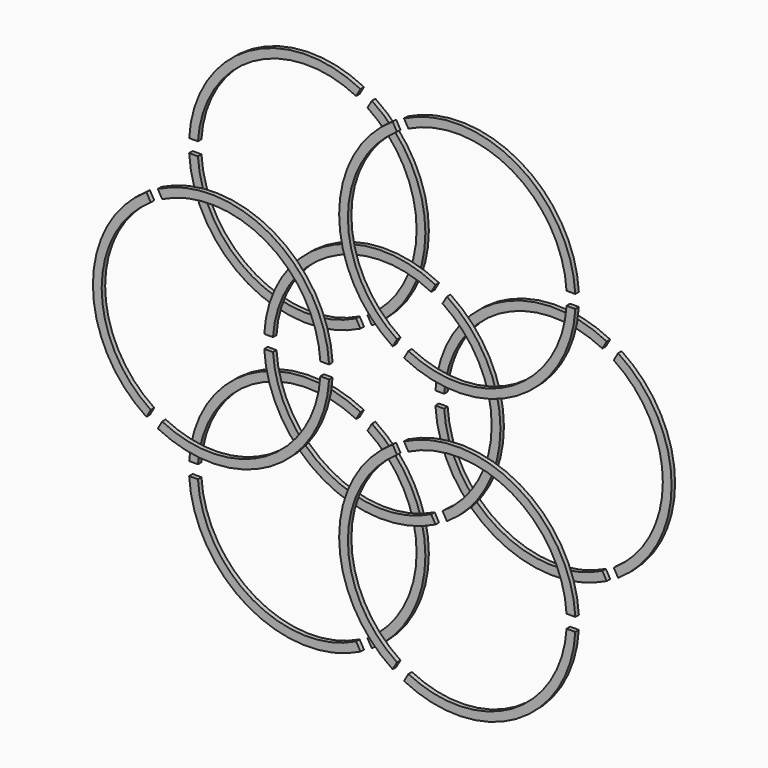
from build123d import *

# Parameters (mm, degrees)
F0_R     = 27
F0_R_2   = 25
F2_DEPTH = 1
F3_W     = 44.7765421122
F3_H     = 10.4313171469
F4_DEPTH = 1.5
F5_COUNT = 3
F8_COUNT = 3
F9_ANGLE = 60


with BuildPart() as f2:
    # F0 (on Front) → F2 (new body)
    with BuildSketch(Plane.XZ):
        Circle(F0_R)
        Circle(F0_R_2, mode=Mode.SUBTRACT)
    extrude(amount=F2_DEPTH)


with BuildPart() as f4:
    # F3 (on Top) → F4 (new body, symmetric)
    with BuildSketch(Plane.XY):
        with Locations((-6.3067460433, -0.2575635444)):
            Rectangle(F3_W, F3_H)
    extrude(amount=F4_DEPTH, both=True)


with BuildPart() as f5_1:
    # F5: instance of F4
    add(f4.part.rotate(Axis((0, 0.8370806463, 0), (0, 1, 0)), 1 * 360 / F5_COUNT))


with BuildPart() as f5_2:
    # F5: instance of F4
    add(f4.part.rotate(Axis((0, 0.8370806463, 0), (0, 1, 0)), 2 * 360 / F5_COUNT))


with BuildPart() as f2_1:
    add(f2.part)

    # F6: cut F4, F5_2, F5_1
    add(f4.part, mode=Mode.SUBTRACT)
    add(f5_2.part, mode=Mode.SUBTRACT)
    add(f5_1.part, mode=Mode.SUBTRACT)


with BuildPart() as f7_1:
    # F7: copy of F2
    add(f2_1.part.moved(Location((37.5, 2, 0))))


with BuildPart() as f8_1:
    # F8: instance of F7_1
    add(f7_1.part.rotate(Axis((0, 0.8370806463, 0), (0, 1, 0)), 1 * 360 / F8_COUNT))


with BuildPart() as f8_2:
    # F8: instance of F7_1
    add(f7_1.part.rotate(Axis((0, 0.8370806463, 0), (0, 1, 0)), 2 * 360 / F8_COUNT))


with BuildPart() as f9_1:
    # F9: copy of F8_2
    add(f8_2.part.rotate(Axis((0, 0.8370806463, 0), (0, 1, 0)), F9_ANGLE))


with BuildPart() as f9_2:
    # F9: copy of F8_1
    add(f8_1.part.rotate(Axis((0, 0.8370806463, 0), (0, 1, 0)), F9_ANGLE))


with BuildPart() as f9_3:
    # F9: copy of F7_1
    add(f7_1.part.rotate(Axis((0, 0.8370806463, 0), (0, 1, 0)), F9_ANGLE))


with BuildPart() as f9_3_1:
    # F10: moved
    add(f9_3.part.moved(Location((0, -4, 0))))


with BuildPart() as f9_1_1:
    # F10: moved
    add(f9_1.part.moved(Location((0, -4, 0))))


with BuildPart() as f9_2_1:
    # F10: moved
    add(f9_2.part.moved(Location((0, -4, 0))))


solid = Compound([f2_1.part, f7_1.part, f8_1.part, f8_2.part, f9_3_1.part, f9_1_1.part, f9_2_1.part])
